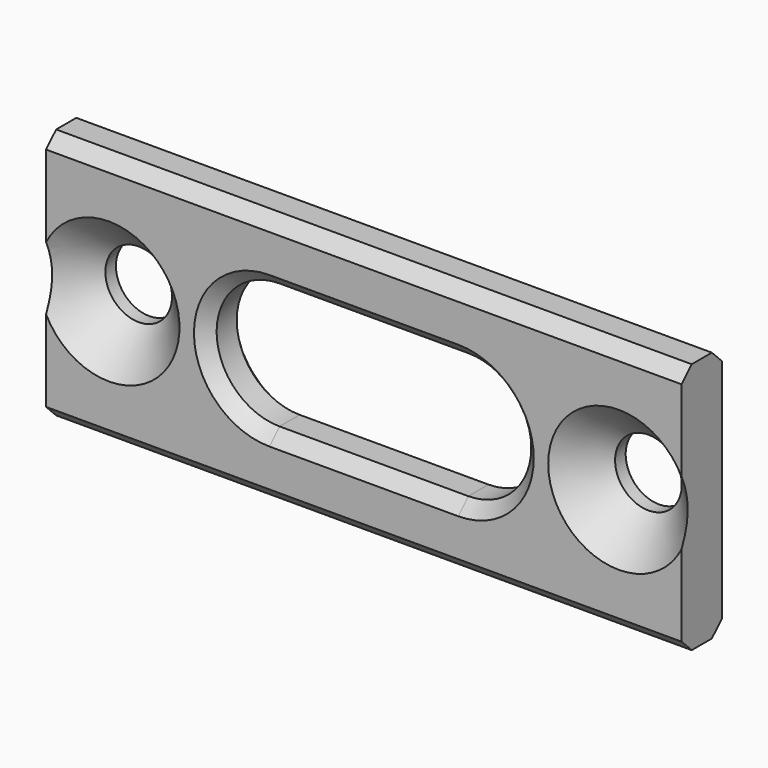
from build123d import *

# Parameters (mm, degrees)
F0_W           = 50.5
F0_H           = 20
F1_DEPTH       = 4
F3_D           = 5.3
F3_DEPTH       = 8
F3_CSINK_D     = 11.2
F3_CSINK_ANGLE = 90
F3_TIP         = 1.5922806404
F5_DEPTH       = 4.001
F6_SIZE        = 1


with BuildPart() as f1:
    # F0 (on Front) → F1 (new body)
    with BuildSketch(Plane.XZ):
        with Locations((0, -10)):
            Rectangle(F0_W, F0_H)
    extrude(amount=F1_DEPTH)

    # F3
    with Locations(Plane.XZ.offset(4)):
        with Locations((-20.25, -10), (20.25, -10)):
            CounterSinkHole(F3_D / 2, F3_CSINK_D / 2, depth=F3_DEPTH, counter_sink_angle=F3_CSINK_ANGLE)
            with Locations((0, 0, -(F3_DEPTH + F3_TIP / 2))):  # 118° drill point
                Cone(0, F3_D / 2, F3_TIP, mode=Mode.SUBTRACT)

    # F4 (on face) → F5 (cut, through all)
    with BuildSketch(Plane.XZ.offset(4)):
        with BuildLine():
            Line((7.5, -5), (-7.5, -5))
            ThreePointArc((-7.5, -5), (-12.5, -10), (-7.5, -15))
            Line((-7.5, -15), (7.5, -15))
            ThreePointArc((7.5, -15), (12.5, -10), (7.5, -5))
        make_face()
    extrude(amount=-F5_DEPTH, mode=Mode.SUBTRACT)

    # F6
    f6_edges = [f1.edges().sort_by_distance(p)[0] for p in [
        (0, -4, -20),
        (0, -4, 0),
        (0, -4, -15),
        (0, 0, -15),
        (0, 0, -20),
        (0, 0, 0),
    ]]
    chamfer(f6_edges, length=F6_SIZE)


solid = f1.part
